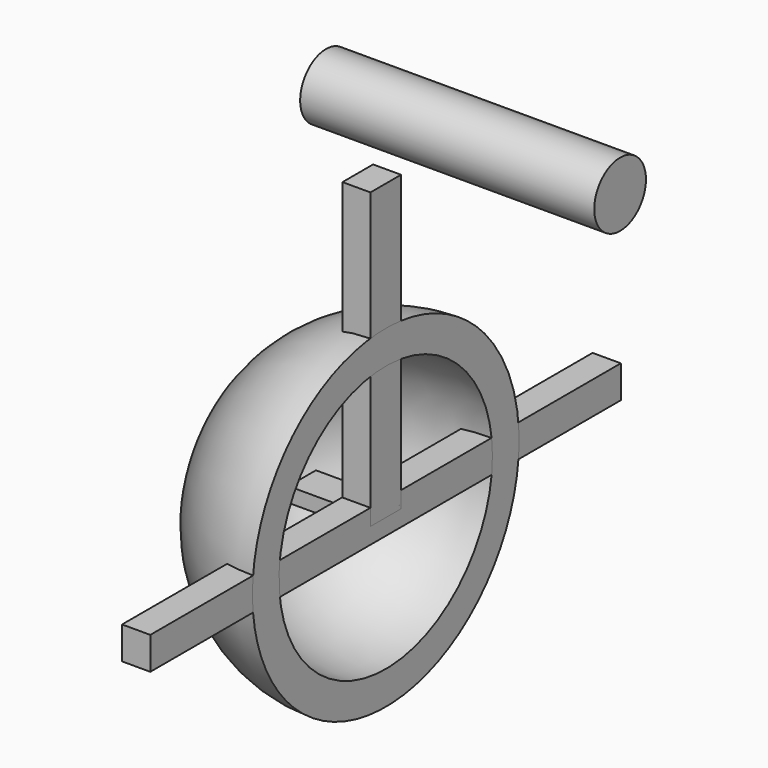
from build123d import *

# Parameters (mm, degrees)
F1_W      = 21.1188904941
F1_H      = 4.6637551859
F2_DEPTH  = 1
F0_R      = 20.3782812444
F4_W      = 29.2367804796
F4_H      = 57.13144131
F5_DEPTH  = 25
F6_W      = 3.8408043329
F6_H      = 4.4252569787
F7_DEPTH  = 40
F8_W      = 3.8002075162
F8_H      = 5.2054570988
F9_DEPTH  = 40
F12_W     = 8.9062079787
F12_H     = 25.4112929106
F13_DEPTH = 12.5
F14_R     = 4.3943907086
F15_DEPTH = 40


with BuildPart() as f2:
    # F1 (on Top) → F2 (new body, symmetric)
    with BuildSketch(Plane.XY):
        with Locations((-0.8285054937, 0.064924825)):
            Rectangle(F1_W, F1_H)
    extrude(amount=F2_DEPTH, both=True)


with BuildPart() as f3:
    # F0 (on Top) → F3 (revolve)
    with BuildSketch(Plane.XY):
        Circle(F0_R)
    revolve(axis=Axis((-0.8285054937, -2.266952768, -1), (-1, 0, 0)))


with BuildPart() as f5_tool:
    # F4 (on Top) → F5 (new body, symmetric)
    with BuildSketch(Plane.XY):
        with Locations((14.6183902398, -2.2337837145)):
            Rectangle(F4_W, F4_H)
    extrude(amount=F5_DEPTH, both=True)


with BuildPart() as f2_1:
    add(f2.part)

    # F5: cut by f5_tool
    add(f5_tool.part, mode=Mode.SUBTRACT)


with BuildPart() as f3_1:
    add(f3.part)

    # F5: cut by f5_tool
    add(f5_tool.part, mode=Mode.SUBTRACT)


with BuildPart() as f7:
    # F6 (on Front) → F7 (new body, symmetric)
    with BuildSketch(Plane.XZ):
        with Locations((-1.9204021664, 0.0174918678)):
            Rectangle(F6_W, F6_H)
    extrude(amount=F7_DEPTH, both=True)


with BuildPart() as f9:
    # F8 (on Top) → F9 (new body)
    with BuildSketch(Plane.XY):
        with Locations((-1.9001037581, 0.0281946268)):
            Rectangle(F8_W, F8_H)
    extrude(amount=F9_DEPTH)


with BuildPart() as f3_2:
    # F10: moved
    add(f3_1.part.moved(Location((0, 2.3, 0))))


with BuildPart() as f3_3:
    # F11: moved
    add(f3_2.part.moved(Location((0, 0, 1))))

    # F12 (on Top) → F13 (cut, symmetric)
    with BuildSketch(Plane.XY):
        with Locations((-23.9103324711, -1.2943558395)):
            Rectangle(F12_W, F12_H)
    extrude(amount=F13_DEPTH, both=True, mode=Mode.SUBTRACT)


with BuildPart() as f15:
    # F14 (on Right) → F15 (new body)
    with BuildSketch(Plane.YZ):
        with Locations((39.8779436946, 22.5193239748)):
            Circle(F14_R)
    extrude(amount=-F15_DEPTH)


solid = Compound([f2_1.part, f7.part, f9.part, f3_3.part, f15.part])
